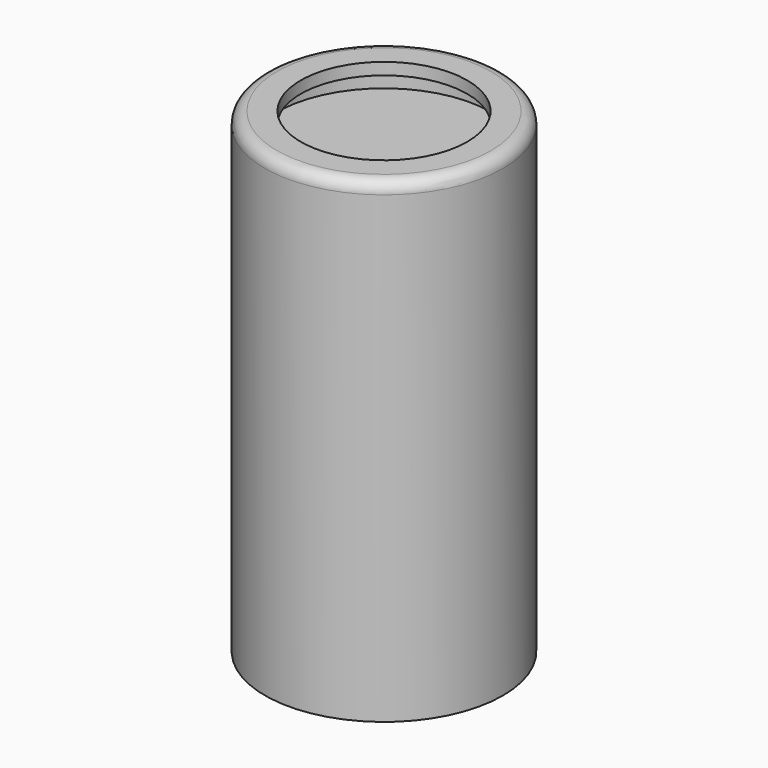
from build123d import *

# Parameters (mm, degrees)
SKETCH018_R     = 5
PAD011_DEPTH    = 20
SKETCH019_R     = 3.5
POCKET007_DEPTH = 0.5
SKETCH020_R     = 4.5
POCKET008_DEPTH = 1
FILLET_R        = 0.5


with BuildPart() as part:
    # Sketch018 → Pad011 (new body)
    with BuildSketch(Plane.XY):
        Circle(SKETCH018_R)
    extrude(amount=PAD011_DEPTH)

    # Sketch019 (on Face3 of Pad011) → Pocket007 (cut)
    with BuildSketch(Plane.XY.offset(20)):
        Circle(SKETCH019_R)
    extrude(amount=-POCKET007_DEPTH, mode=Mode.SUBTRACT)

    # Sketch020 (on Face5 of Pocket007) → Pocket008 (cut)
    with BuildSketch(Plane.XY.offset(19.5)):
        Circle(SKETCH020_R)
    extrude(amount=-POCKET008_DEPTH, mode=Mode.SUBTRACT)

    # Fillet
    fillet_edges = [part.edges().sort_by_distance(p)[0] for p in [
        (-5, 0, 20),
    ]]
    fillet(fillet_edges, radius=FILLET_R)


solid = part.part
